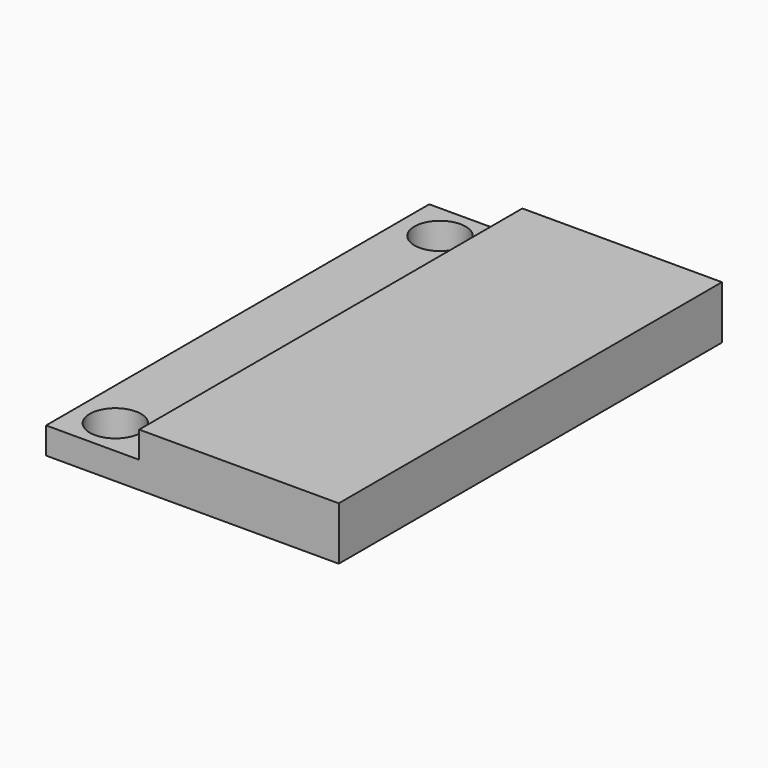
from build123d import *

# Parameters (mm, degrees)
SKETCH_W       = 22
SKETCH_H       = 36
PAD_DEPTH      = 2
SKETCH001_R    = 1.925
HOLE_DEPTH     = 86.475848
PAD001_DEPTH   = 2
PAD001_FACE8_W = 32
PAD001_FACE8_H = 2
PAD002_DEPTH   = 10
PAD002_FACE9_W = 36
PAD002_FACE9_H = 2
PAD003_DEPTH   = 3


with BuildPart() as part:
    # Sketch → Pad (new body)
    with BuildSketch(Plane.XY):
        with Locations((11, 18)):
            Rectangle(SKETCH_W, SKETCH_H)
    extrude(amount=PAD_DEPTH)

    # Sketch001 (on Face6 of Pad) → Hole (cut, through all)
    with BuildSketch(Plane.XY.offset(2)):
        with Locations((3.010433, 2.75)):
            Circle(SKETCH001_R)
    hole = extrude(amount=-HOLE_DEPTH, mode=Mode.SUBTRACT)

    # Mirrored: Hole across Sketch001 Axis0
    add(hole.mirror(Plane(origin=(0, 18, 2), x_dir=(0, 0, 1), z_dir=(0, 1, 0))), mode=Mode.SUBTRACT)

    # Sketch002 (on Face5 of Mirrored) → Pad001 (join)
    with BuildSketch(Plane.XY.offset(2)):
        Polygon((10, 36), (10, 34), (20, 34), (20, 2), (10, 2), (10, 0), (22, 0), (22, 36), align=None)
    extrude(amount=PAD001_DEPTH)

    # Pad001 Face8 → Pad002 (add)
    with BuildSketch(Plane(origin=(20, 18, 3), x_dir=(0, 1, 0), z_dir=(-1, 0, 0))):
        Rectangle(PAD001_FACE8_W, PAD001_FACE8_H)
    extrude(amount=PAD002_DEPTH)

    # Pad002 Face9 → Pad003 (add)
    with BuildSketch(Plane(origin=(10, 18, 3), x_dir=(0, 1, 0), z_dir=(-1, 0, 0))):
        Rectangle(PAD002_FACE9_W, PAD002_FACE9_H)
    extrude(amount=PAD003_DEPTH)


solid = part.part
